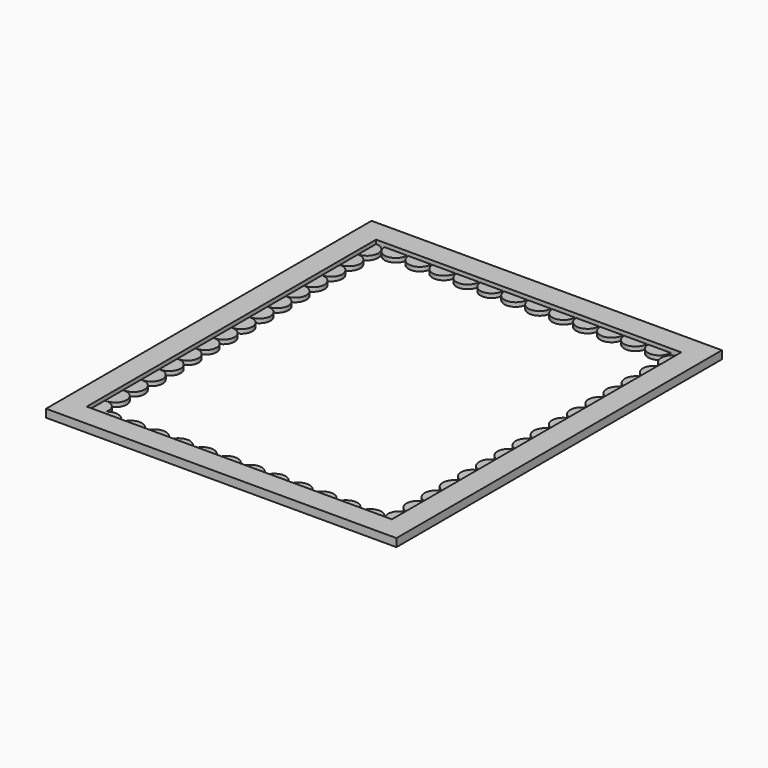
from build123d import *

# Parameters (mm, degrees)
F0_W     = 171.45
F0_H     = 203.2
F0_W_2   = 196.85
F0_H_2   = 228.6
F1_DEPTH = 4.5
F2_DEPTH = 4.5
F3_R     = 6.2865
F4_DEPTH = 2.3
F5_R     = 6.35
F6_DEPTH = 2.3


with BuildPart() as f1:
    # F0 (on Top) → F1 (new body)
    with BuildSketch(Plane.XY):
        Rectangle(F0_W, F0_H)
        Rectangle(F0_W_2, F0_H_2)
        Rectangle(F0_W, F0_H, mode=Mode.SUBTRACT)
    extrude(amount=F1_DEPTH)

    # F0 (on Top) → F2 (cut)
    with BuildSketch(Plane.XY):
        Rectangle(F0_W, F0_H)
    extrude(amount=F2_DEPTH, mode=Mode.SUBTRACT)

    # F3 (on face) → F4 (join)
    with BuildSketch(Plane.XY):
        with Locations((-85.791959, 95.313857)):
            Circle(F3_R)
        with Locations((85.791959, 95.313857)):
            Circle(F3_R)
        with Locations((-85.726304, 82.614026)):
            Circle(F3_R)
        with Locations((-85.660648, 69.914196)):
            Circle(F3_R)
        with Locations((-85.594992, 57.214366)):
            Circle(F3_R)
        with Locations((-85.529336, 44.514535)):
            Circle(F3_R)
        with Locations((-85.463681, 31.814705)):
            Circle(F3_R)
        with Locations((-85.398025, 19.114875)):
            Circle(F3_R)
        with Locations((-85.332369, 6.415045)):
            Circle(F3_R)
        with Locations((-85.266714, -6.284786)):
            Circle(F3_R)
        with Locations((-85.201058, -18.984616)):
            Circle(F3_R)
        with Locations((-85.135402, -31.684446)):
            Circle(F3_R)
        with Locations((-85.069747, -44.384277)):
            Circle(F3_R)
        with Locations((-85.004091, -57.084107)):
            Circle(F3_R)
        with Locations((-84.938435, -69.783937)):
            Circle(F3_R)
        with Locations((-84.87278, -82.483767)):
            Circle(F3_R)
        with Locations((-84.807124, -95.183598)):
            Circle(F3_R)
        with Locations((85.726304, 82.614026)):
            Circle(F3_R)
        with Locations((85.660648, 69.914196)):
            Circle(F3_R)
        with Locations((85.594992, 57.214366)):
            Circle(F3_R)
        with Locations((85.529336, 44.514535)):
            Circle(F3_R)
        with Locations((85.463681, 31.814705)):
            Circle(F3_R)
        with Locations((85.398025, 19.114875)):
            Circle(F3_R)
        with Locations((85.332369, 6.415045)):
            Circle(F3_R)
        with Locations((85.266714, -6.284786)):
            Circle(F3_R)
        with Locations((85.201058, -18.984616)):
            Circle(F3_R)
        with Locations((85.135402, -31.684446)):
            Circle(F3_R)
        with Locations((85.069747, -44.384277)):
            Circle(F3_R)
        with Locations((85.004091, -57.084107)):
            Circle(F3_R)
        with Locations((84.938435, -69.783937)):
            Circle(F3_R)
        with Locations((84.87278, -82.483767)):
            Circle(F3_R)
        with Locations((84.807124, -95.183598)):
            Circle(F3_R)
    extrude(amount=F4_DEPTH)

    # F5 (on face) → F6 (join)
    with BuildSketch(Plane.XY):
        with Locations((-74.604236, 101.599999)):
            Circle(F5_R)
        with Locations((-61.142236, 101.6)):
            Circle(F5_R)
        with Locations((-47.680236, 101.600001)):
            Circle(F5_R)
        with Locations((-34.218236, 101.600003)):
            Circle(F5_R)
        with Locations((-20.756236, 101.600004)):
            Circle(F5_R)
        with Locations((-7.294236, 101.600005)):
            Circle(F5_R)
        with Locations((6.167764, 101.600007)):
            Circle(F5_R)
        with Locations((19.629764, 101.600008)):
            Circle(F5_R)
        with Locations((33.091764, 101.600009)):
            Circle(F5_R)
        with Locations((46.553764, 101.600011)):
            Circle(F5_R)
        with Locations((60.015764, 101.600012)):
            Circle(F5_R)
        with Locations((73.477764, 101.600013)):
            Circle(F5_R)
        with Locations((-74.604236, -101.599999)):
            Circle(F5_R)
        with Locations((-61.142236, -101.6)):
            Circle(F5_R)
        with Locations((-47.680236, -101.600001)):
            Circle(F5_R)
        with Locations((-34.218236, -101.600003)):
            Circle(F5_R)
        with Locations((-20.756236, -101.600004)):
            Circle(F5_R)
        with Locations((-7.294236, -101.600005)):
            Circle(F5_R)
        with Locations((6.167764, -101.600007)):
            Circle(F5_R)
        with Locations((19.629764, -101.600008)):
            Circle(F5_R)
        with Locations((73.477764, -101.600013)):
            Circle(F5_R)
        with Locations((46.553764, -101.600011)):
            Circle(F5_R)
        with Locations((33.091764, -101.600009)):
            Circle(F5_R)
        with Locations((60.015764, -101.600012)):
            Circle(F5_R)
    extrude(amount=F6_DEPTH)


solid = f1.part
